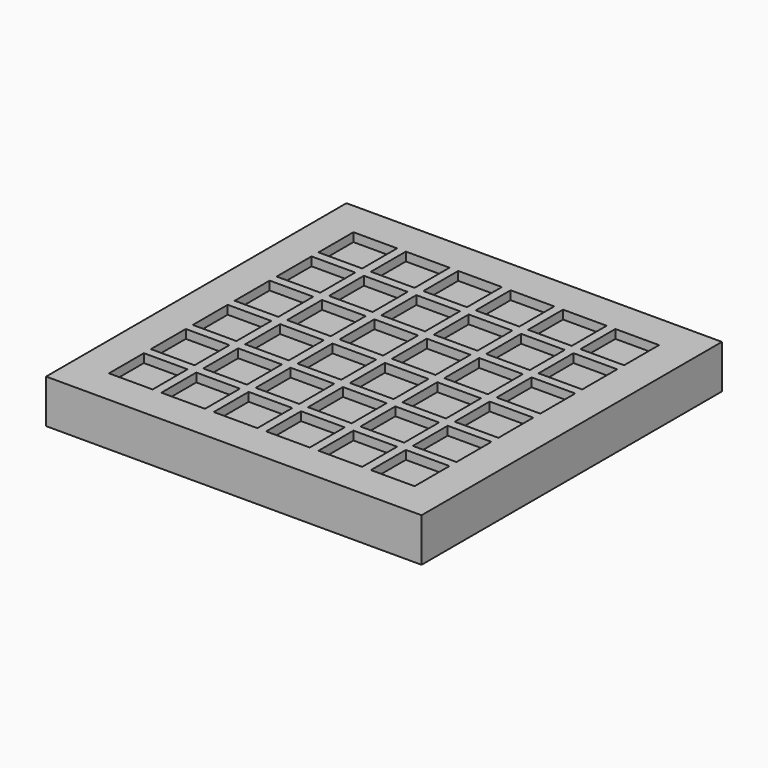
from build123d import *

# Parameters (mm, degrees)
F0_W     = 43
F0_H     = 43
F1_DEPTH = 5
F2_W     = 5
F2_H     = 5
F3_DEPTH = 1


with BuildPart() as f1:
    # F0 (on Top) → F1 (new body)
    with BuildSketch(Plane.XY):
        with Locations((21.5, -21.5)):
            Rectangle(F0_W, F0_H)
    extrude(amount=F1_DEPTH)

    # F2 (on face) → F3 (cut)
    with BuildSketch(Plane.XY.offset(5)):
        with Locations((6.5, -6.5)):
            Rectangle(F2_W, F2_H)
        with Locations((6.5, -12.5)):
            Rectangle(F2_W, F2_H)
        with Locations((6.5, -18.5)):
            Rectangle(F2_W, F2_H)
        with Locations((6.5, -24.5)):
            Rectangle(F2_W, F2_H)
        with Locations((18.5, -6.5)):
            Rectangle(F2_W, F2_H)
        with Locations((18.5, -12.5)):
            Rectangle(F2_W, F2_H)
        with Locations((18.5, -18.5)):
            Rectangle(F2_W, F2_H)
        with Locations((30.5, -24.5)):
            Rectangle(F2_W, F2_H)
        with Locations((30.5, -30.5)):
            Rectangle(F2_W, F2_H)
        with Locations((30.5, -36.5)):
            Rectangle(F2_W, F2_H)
        with Locations((36.5, -6.5)):
            Rectangle(F2_W, F2_H)
        with Locations((36.5, -12.5)):
            Rectangle(F2_W, F2_H)
        with Locations((36.5, -18.5)):
            Rectangle(F2_W, F2_H)
        with Locations((36.5, -36.5)):
            Rectangle(F2_W, F2_H)
        with Locations((36.5, -30.5)):
            Rectangle(F2_W, F2_H)
        with Locations((36.5, -24.5)):
            Rectangle(F2_W, F2_H)
        with Locations((30.5, -18.5)):
            Rectangle(F2_W, F2_H)
        with Locations((30.5, -12.5)):
            Rectangle(F2_W, F2_H)
        with Locations((30.5, -6.5)):
            Rectangle(F2_W, F2_H)
        with Locations((24.5, -36.5)):
            Rectangle(F2_W, F2_H)
        with Locations((24.5, -30.5)):
            Rectangle(F2_W, F2_H)
        with Locations((24.5, -24.5)):
            Rectangle(F2_W, F2_H)
        with Locations((24.5, -18.5)):
            Rectangle(F2_W, F2_H)
        with Locations((24.5, -12.5)):
            Rectangle(F2_W, F2_H)
        with Locations((24.5, -6.5)):
            Rectangle(F2_W, F2_H)
        with Locations((18.5, -36.5)):
            Rectangle(F2_W, F2_H)
        with Locations((18.5, -30.5)):
            Rectangle(F2_W, F2_H)
        with Locations((12.5, -36.5)):
            Rectangle(F2_W, F2_H)
        with Locations((6.5, -36.5)):
            Rectangle(F2_W, F2_H)
        with Locations((6.5, -30.5)):
            Rectangle(F2_W, F2_H)
        with Locations((12.5, -30.5)):
            Rectangle(F2_W, F2_H)
        with Locations((12.5, -24.5)):
            Rectangle(F2_W, F2_H)
        with Locations((18.5, -24.5)):
            Rectangle(F2_W, F2_H)
        with Locations((12.5, -18.5)):
            Rectangle(F2_W, F2_H)
        with Locations((12.5, -12.5)):
            Rectangle(F2_W, F2_H)
        with Locations((12.5, -6.5)):
            Rectangle(F2_W, F2_H)
    extrude(amount=-F3_DEPTH, mode=Mode.SUBTRACT)


solid = f1.part
